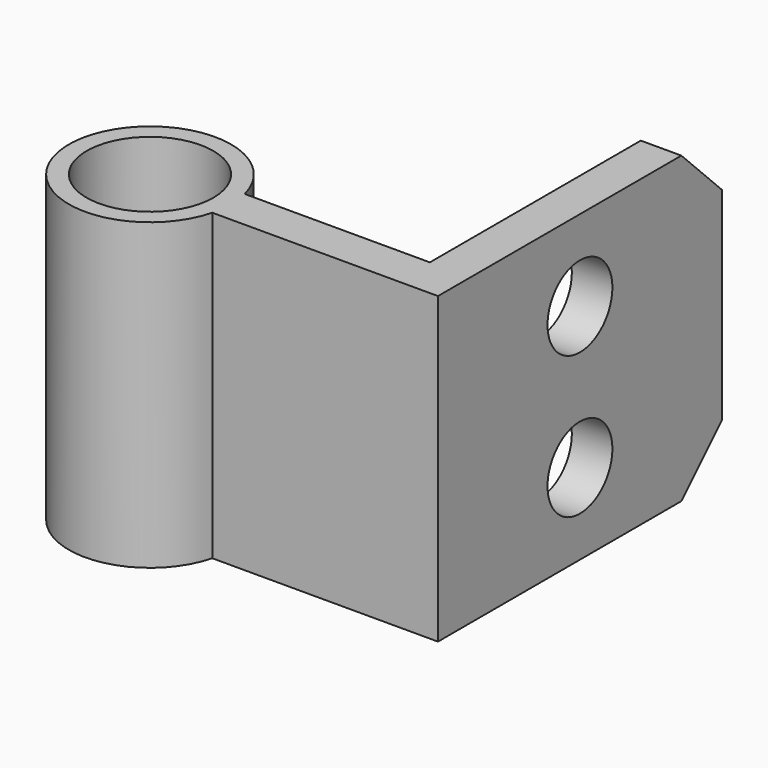
from build123d import *

# Parameters (mm, degrees)
F0_R     = 6.25
F1_DEPTH = 30
F2_R     = 4
F3_DEPTH = 38.001
F4_SIZE  = 5


with BuildPart() as f1:
    # F0 (on Top) → F1 (new body)
    with BuildSketch(Plane.XY):
        with BuildLine():
            Line((26, 2), (7.745967, 2))
            ThreePointArc((7.745967, 2), (-8, 0), (7.745967, -2))
            Line((7.745967, -2), (26, -2))
            Line((26, -2), (30, -2))
            Line((30, -2), (30, 2))
            Line((30, 2), (30, 33))
            Line((30, 33), (26, 33))
            Line((26, 33), (26, 2))
        make_face()
        Circle(F0_R, mode=Mode.SUBTRACT)
    extrude(amount=F1_DEPTH)

    # F2 (on face) → F3 (cut, through all)
    with BuildSketch(Plane.YZ.offset(30)):
        with Locations((15.5, 22)):
            Circle(F2_R)
        with Locations((15.5, 8)):
            Circle(F2_R)
    extrude(amount=-F3_DEPTH, mode=Mode.SUBTRACT)

    # F4
    f4_edges = [f1.edges().sort_by_distance(p)[0] for p in [
        (28, 33, 30),
        (28, 33, 0),
    ]]
    chamfer(f4_edges, length=F4_SIZE)


solid = f1.part
